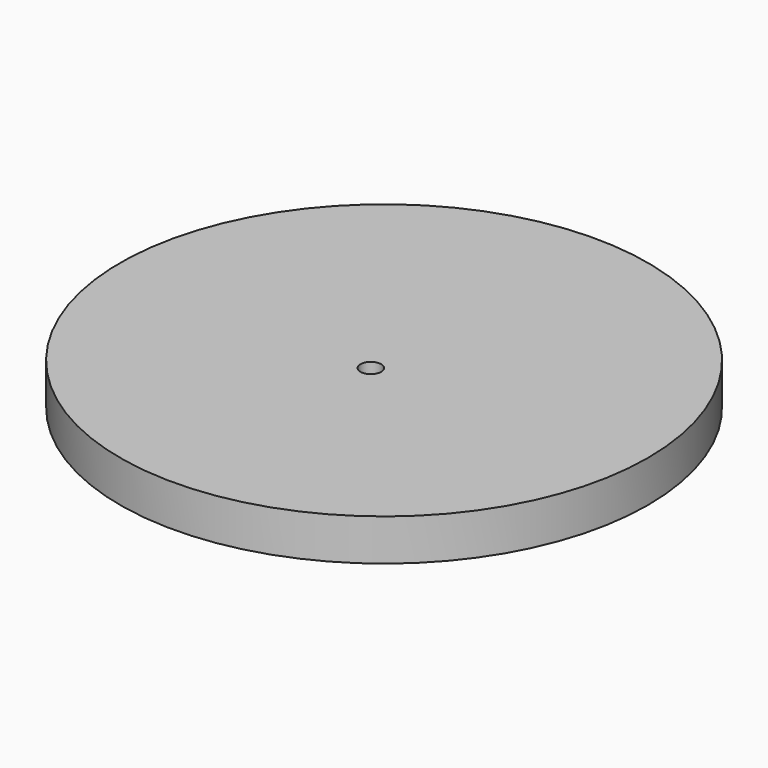
from build123d import *

# Parameters (mm, degrees)
F0_R     = 63.5
F1_DEPTH = 10
F2_R     = 2.5
F3_DEPTH = 10.001


with BuildPart() as f1:
    # F0 (on Top) → F1 (new body)
    with BuildSketch(Plane.XY):
        Circle(F0_R)
    extrude(amount=F1_DEPTH)

    # F2 (on face) → F3 (cut, through all)
    with BuildSketch(Plane.XY.offset(10)):
        with Locations((0, -3.989147)):
            Circle(F2_R)
    extrude(amount=-F3_DEPTH, mode=Mode.SUBTRACT)


solid = f1.part
